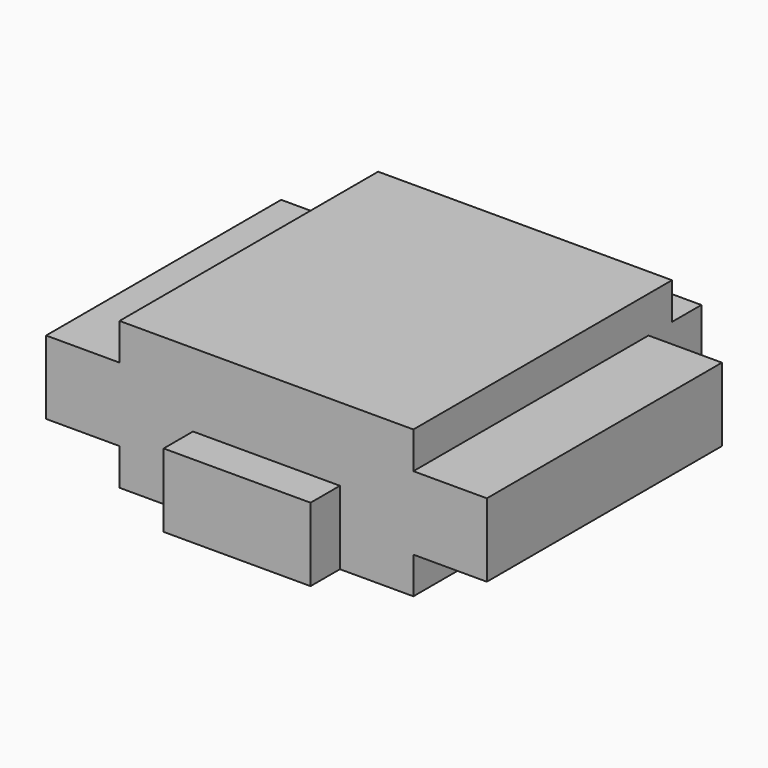
from build123d import *

# Parameters (mm, degrees)
F1_DEPTH = 50.8
F2_DEPTH = 25.4
F0_W     = 25.4
F0_H     = 25.4
F3_DEPTH = 25.4
F4_W     = 25.4
F4_H     = 25.4
F5_DEPTH = 101.6
F6_W     = 12.7
F6_H     = 12.7
F7_DEPTH = 38.1


with BuildPart() as f1:
    # F0 (on Top) → F1 (new body)
    with BuildSketch(Plane.XY):
        Polygon((-50.8, 55.880003), (-50.8, -55.880003), (-25.4, -55.880003), (25.4, -55.880003), (50.8, -55.880003), (50.8, 55.880003), (12.7, 55.880003), (-12.7, 55.880003), align=None)
    extrude(amount=F1_DEPTH)

    # F0 (on Top) → F2 (join)
    with BuildSketch(Plane.XY):
        Polygon((25.4, -55.880003), (-25.4, -55.880003), (-25.4, -68.580003), (-12.7, -68.580003), (12.7, -68.580003), (25.4, -68.580003), align=None)
    extrude(amount=F2_DEPTH)

    # F0 (on Top) → F3 (join)
    with BuildSketch(Plane.XY):
        with Locations((0, 68.580003)):
            Rectangle(F0_W, F0_H)
    extrude(amount=F3_DEPTH)

    # F4 (on face) → F5 (join)
    with BuildSketch(Plane.XZ.offset(55.880003)):
        with Locations((-63.5, 25.4)):
            Rectangle(F4_W, F4_H)
        with Locations((63.5, 25.4)):
            Rectangle(F4_W, F4_H)
    extrude(amount=-F5_DEPTH)

    # F6 (on face) → F7 (join)
    with BuildSketch(Plane(origin=(0, 0, 0), x_dir=(1, 0, 0), z_dir=(0, 0, -1))):
        with Locations((-44.45, -62.230003)):
            Rectangle(F6_W, F6_H)
        with Locations((44.45, -62.230003)):
            Rectangle(F6_W, F6_H)
    extrude(amount=-F7_DEPTH)


solid = f1.part
